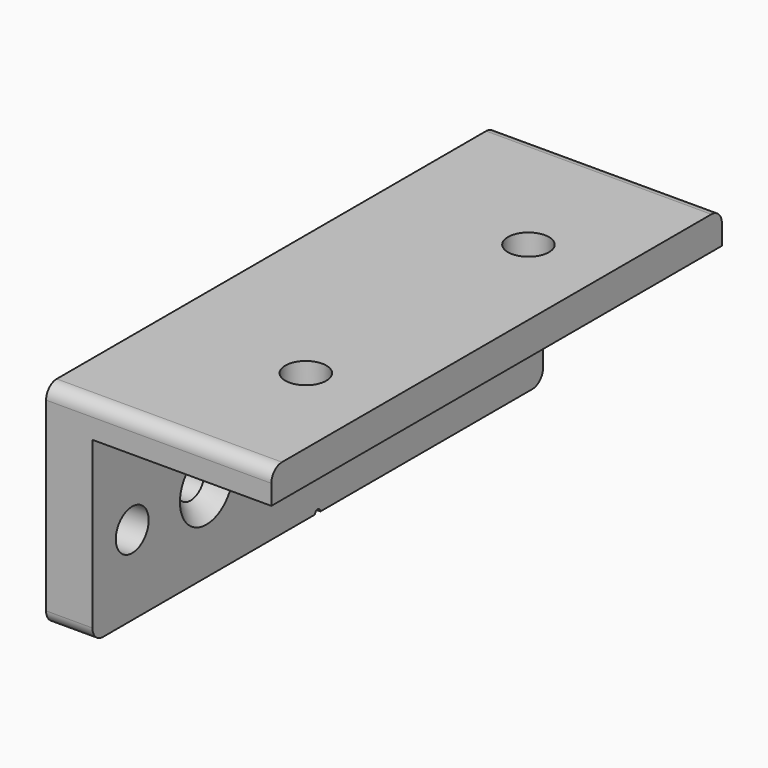
from build123d import *

# Parameters (mm, degrees)
PAD_DEPTH            = 42.5
SKETCH001_R          = 3.1
POCKET_DEPTH         = 27.001
POCKET_DEPTH_BACK    = -5.001
SKETCH002_R          = 2.6
SKETCH002_R_2        = 3.1
POCKET001_DEPTH      = 7.001
FILLET_R             = 2
SKETCH005_R          = 0.5
POCKET002_DEPTH      = 7.001
POCKET002_DEPTH_BACK = -27.001
SKETCH006_R          = 6
POCKET003_DEPTH      = 2


with BuildPart() as part:
    # Sketch → Pad (new body, symmetric)
    with BuildSketch(Plane.XZ):
        Polygon((-7, 5), (27, 5), (27, 0), (0, 0), (0, -27), (-7, -27), align=None)
    extrude(amount=PAD_DEPTH, both=True)

    # Sketch001 → Pocket (cut, two sides)
    with BuildSketch(Plane.XY) as pocket_sk:
        with Locations((15, -21)):
            Circle(SKETCH001_R)
        with Locations((15, 21)):
            Circle(SKETCH001_R)
    extrude(amount=-POCKET_DEPTH, mode=Mode.SUBTRACT)
    extrude(pocket_sk.sketch, amount=-POCKET_DEPTH_BACK, mode=Mode.SUBTRACT)

    # Sketch002 → Pocket001 (cut, through all)
    with BuildSketch(Plane.YZ):
        with Locations((-21, -15)):
            Circle(SKETCH002_R)
        with Locations((21, -15)):
            Circle(SKETCH002_R)
        with Locations((-35, -15)):
            Circle(SKETCH002_R_2)
        with Locations((35, -15)):
            Circle(SKETCH002_R_2)
    extrude(amount=-POCKET001_DEPTH, mode=Mode.SUBTRACT)

    # Sketch003 (on DatumPlane) → Groove (revolve, cut)
    with BuildSketch(Plane.XY.offset(-15)):
        Polygon((0, 21), (-5, 21), (0, 16), align=None)
    revolve(axis=Axis((0, 21, -15), (1, 0, 0)), mode=Mode.SUBTRACT)

    # Sketch004 (on DatumPlane) → Groove001 (revolve, cut)
    with BuildSketch(Plane.XY.offset(-15)):
        Polygon((-5, -21), (0, -21), (0, -16), align=None)
    revolve(axis=Axis((0, -21, -15), (1, 0, 0)), mode=Mode.SUBTRACT)

    # Fillet
    fillet_edges = [part.edges().sort_by_distance(p)[0] for p in [
        (-3.5, -42.5, -27),
        (-3.5, 42.5, -27),
        (10, -42.5, 5),
        (10, 42.5, 5),
    ]]
    fillet(fillet_edges, radius=FILLET_R)

    # Sketch005 → Pocket002 (cut, two sides)
    with BuildSketch(Plane.YZ) as pocket002_sk:
        with Locations((0, -27)):
            Circle(SKETCH005_R)
    extrude(amount=-POCKET002_DEPTH, mode=Mode.SUBTRACT)
    extrude(pocket002_sk.sketch, amount=-POCKET002_DEPTH_BACK, mode=Mode.SUBTRACT)

    # Sketch006 (on Face2 of Pocket002) → Pocket003 (cut)
    with BuildSketch(Plane(origin=(-7, 0, 0), x_dir=(0, 0, -1), z_dir=(-1, 0, 0))):
        with Locations((15, 35)):
            Circle(SKETCH006_R)
        with Locations((15, -35)):
            Circle(SKETCH006_R)
    extrude(amount=-POCKET003_DEPTH, mode=Mode.SUBTRACT)


solid = part.part
